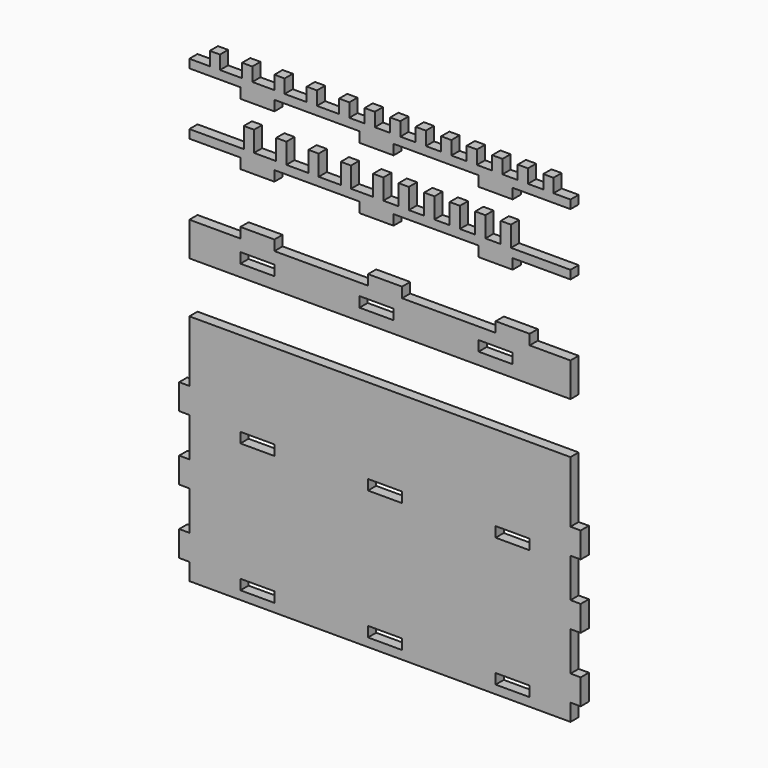
from build123d import *

# Parameters (mm, degrees)
F0_W     = 20
F0_H     = 6
F1_DEPTH = 6
F2_DEPTH = 6
F3_DEPTH = 6
F4_DEPTH = 6


with BuildPart() as f1:
    # F0 (on Front) → F1 (new body)
    with BuildSketch(Plane.XZ):
        Polygon((132.867928, -50.414), (-91.132072, -50.414), (-91.132072, -86.414), (-97.132072, -86.414), (-97.132072, -101.414), (-91.132072, -101.414), (-91.132072, -124.414), (-97.132072, -124.414), (-97.132072, -139.414), (-91.132072, -139.414), (-91.132072, -162.414), (-97.132072, -162.414), (-97.132072, -177.414), (-91.132072, -177.414), (-91.132072, -187.414), (132.867928, -187.414), (132.867928, -177.414), (138.867928, -177.414), (138.867928, -162.414), (132.867928, -162.414), (132.867928, -139.414), (138.867928, -139.414), (138.867928, -124.414), (132.867928, -124.414), (132.867928, -101.414), (138.867928, -101.414), (138.867928, -86.414), (132.867928, -86.414), align=None)
        with Locations((-51.132072, -179.414)):
            Rectangle(F0_W, F0_H, mode=Mode.SUBTRACT)
        with Locations((-51.132072, -103.414)):
            Rectangle(F0_W, F0_H, mode=Mode.SUBTRACT)
        with Locations((23.867928, -179.414)):
            Rectangle(F0_W, F0_H, mode=Mode.SUBTRACT)
        with Locations((98.867928, -179.414)):
            Rectangle(F0_W, F0_H, mode=Mode.SUBTRACT)
        with Locations((23.867928, -103.414)):
            Rectangle(F0_W, F0_H, mode=Mode.SUBTRACT)
        with Locations((98.867928, -103.414)):
            Rectangle(F0_W, F0_H, mode=Mode.SUBTRACT)
    extrude(amount=F1_DEPTH)


with BuildPart() as f2:
    # F0 (on Front) → F2 (new body)
    with BuildSketch(Plane.XZ):
        Polygon((-61.132072, -0.414), (-91.132072, -0.414), (-91.132072, -20.414), (132.867928, -20.414), (132.867928, -0.414), (108.867928, -0.414), (108.867928, 5.586), (88.867928, 5.586), (88.867928, -0.414), (33.867928, -0.414), (33.867928, 5.586), (13.867928, 5.586), (13.867928, -0.414), (-41.132072, -0.414), (-41.132072, 5.586), (-61.132072, 5.586), align=None)
        with Locations((-51.132072, -10.414)):
            Rectangle(F0_W, F0_H, mode=Mode.SUBTRACT)
        with Locations((18.867928, -10.414)):
            Rectangle(F0_W, F0_H, mode=Mode.SUBTRACT)
        with Locations((88.867928, -10.414)):
            Rectangle(F0_W, F0_H, mode=Mode.SUBTRACT)
    extrude(amount=F2_DEPTH)


with BuildPart() as f3:
    # F0 (on Front) → F3 (new body)
    with BuildSketch(Plane.XZ):
        Polygon((16.867928, 58.488489), (16.867928, 46.488489), (3.867928, 46.488489), (3.867928, 58.488489), (-2.132072, 58.488489), (-2.132072, 46.488489), (-15.132072, 46.488489), (-15.132072, 58.488489), (-21.132072, 58.488489), (-21.132072, 46.488489), (-34.132072, 46.488489), (-34.132072, 58.488489), (-40.132072, 58.488489), (-40.132072, 46.488489), (-53.132072, 46.488489), (-53.132072, 58.488489), (-59.132072, 58.488489), (-59.132072, 46.488489), (-91.132072, 46.488489), (-91.132072, 41.488489), (-61.132072, 41.488489), (-61.132072, 35.488489), (-41.132072, 35.488489), (-41.132072, 41.488489), (8.867928, 41.488489), (8.867928, 35.488489), (28.867928, 35.488489), (28.867928, 41.488489), (78.867928, 41.488489), (78.867928, 35.488489), (98.867928, 35.488489), (98.867928, 41.488489), (132.867928, 41.488489), (132.867928, 46.488489), (97.867928, 46.488489), (97.867928, 58.488489), (91.867928, 58.488489), (91.867928, 46.488489), (82.867928, 46.488489), (82.867928, 58.488489), (76.867928, 58.488489), (76.867928, 46.488489), (67.867928, 46.488489), (67.867928, 58.488489), (61.867928, 58.488489), (61.867928, 46.488489), (52.867928, 46.488489), (52.867928, 58.488489), (46.867928, 58.488489), (46.867928, 46.488489), (37.867928, 46.488489), (37.867928, 58.488489), (31.867928, 58.488489), (31.867928, 46.488489), (22.867928, 46.488489), (22.867928, 58.488489), align=None)
    extrude(amount=F3_DEPTH)


with BuildPart() as f4:
    # F0 (on Front) → F4 (new body)
    with BuildSketch(Plane.XZ):
        Polygon((-79.132072, 90.861088), (-79.132072, 82.861088), (-91.132072, 82.861088), (-91.132072, 77.861088), (-61.132072, 77.861088), (-61.132072, 71.861088), (-41.132072, 71.861088), (-41.132072, 77.861088), (8.867928, 77.861088), (8.867928, 71.861088), (28.867928, 71.861088), (28.867928, 77.861088), (78.867928, 77.861088), (78.867928, 71.861088), (98.867928, 71.861088), (98.867928, 77.861088), (132.867928, 77.861088), (132.867928, 82.861088), (122.867928, 82.861088), (122.867928, 90.861088), (116.867928, 90.861088), (116.867928, 82.861088), (107.867928, 82.861088), (107.867928, 90.861088), (101.867928, 90.861088), (101.867928, 82.861088), (92.867928, 82.861088), (92.867928, 90.861088), (86.867928, 90.861088), (86.867928, 82.861088), (77.867928, 82.861088), (77.867928, 90.861088), (71.867928, 90.861088), (71.867928, 82.861088), (62.867928, 82.861088), (62.867928, 90.861088), (56.867928, 90.861088), (56.867928, 82.861088), (47.867928, 82.861088), (47.867928, 90.861088), (41.867928, 90.861088), (41.867928, 82.861088), (32.867928, 82.861088), (32.867928, 90.861088), (26.867928, 90.861088), (26.867928, 82.861088), (17.867928, 82.861088), (17.867928, 90.861088), (11.867928, 90.861088), (11.867928, 82.861088), (2.867928, 82.861088), (2.867928, 90.861088), (-3.132072, 90.861088), (-3.132072, 82.861088), (-16.132072, 82.861088), (-16.132072, 90.861088), (-22.132072, 90.861088), (-22.132072, 82.861088), (-35.132072, 82.861088), (-35.132072, 90.861088), (-41.132072, 90.861088), (-41.132072, 82.861088), (-54.132072, 82.861088), (-54.132072, 90.861088), (-60.132072, 90.861088), (-60.132072, 82.861088), (-73.132072, 82.861088), (-73.132072, 90.861088), align=None)
    extrude(amount=F4_DEPTH)


solid = Compound([f1.part, f2.part, f3.part, f4.part])
